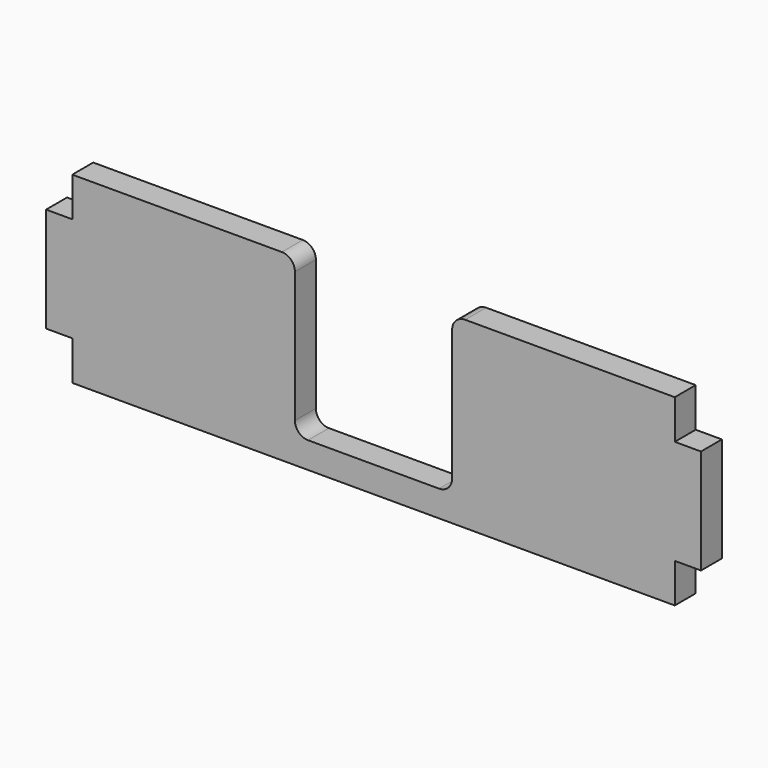
from build123d import *

# Parameters (mm, degrees)
PAD_DEPTH = 10


with BuildPart() as part:
    # Sketch → Pad (new body)
    with BuildSketch(Plane.XZ):
        with BuildLine():
            Line((0, 0), (0, 15))
            Line((0, 15), (-10, 15))
            Line((-10, 15), (-10, 55))
            Line((-10, 55), (0, 55))
            Line((0, 55), (0, 70))
            Line((0, 70), (80, 70))
            ThreePointArc((85, 65), (83.535534, 68.535534), (80, 70))
            Line((85, 65), (85, 15))
            ThreePointArc((85, 15), (86.464466, 11.464466), (90, 10))
            Line((90, 10), (140, 10))
            ThreePointArc((140, 10), (143.535534, 11.464466), (145, 15))
            Line((145, 15), (145, 65))
            ThreePointArc((150, 70), (146.464466, 68.535534), (145, 65))
            Line((150, 70), (230, 70))
            Line((230, 70), (230, 55))
            Line((230, 55), (240, 55))
            Line((240, 55), (240, 15))
            Line((240, 15), (230, 15))
            Line((230, 15), (230, 0))
            Line((230, 0), (0, 0))
        make_face()
    extrude(amount=PAD_DEPTH)


solid = part.part
